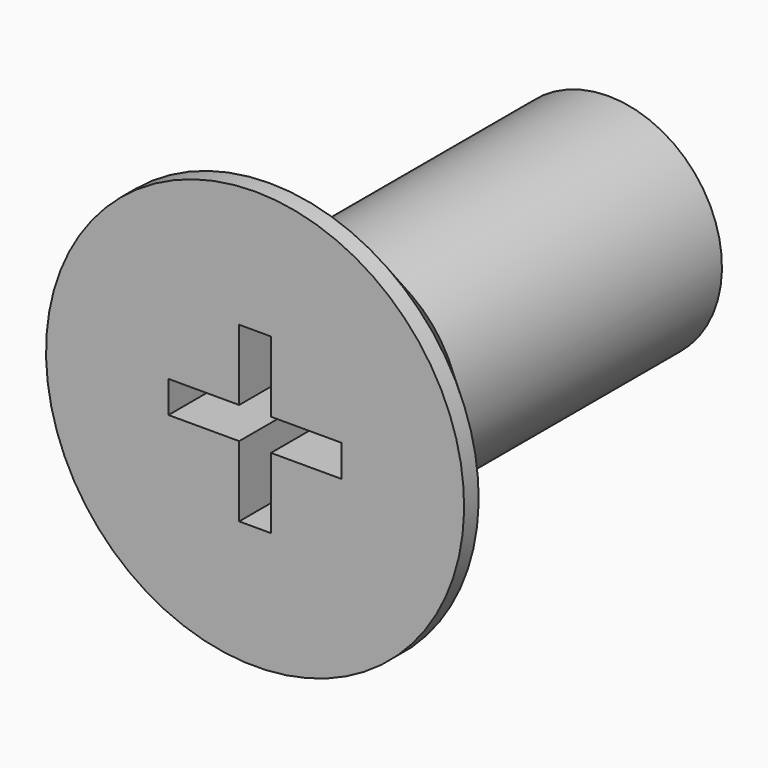
from build123d import *

# Parameters (mm, degrees)
POCKET_DEPTH = 2.54


with BuildPart() as part:
    # Sketch → Revolution (revolve)
    with BuildSketch(Plane.YZ):
        Polygon((0, 0), (0, 4.6), (0.4, 4.6), (2.5, 2.5), (9.717098, 2.5), (10, 2.01), (10, 0), align=None)
    revolve(axis=Axis((0, 0, 0), (0, 1, 0)))

    # Sketch001 → Pocket (cut)
    with BuildSketch(Plane(origin=(0, 0, 0), x_dir=(0, 0, -1), z_dir=(0, -1, 0))):
        Polygon((-1.905, 0.35), (-0.35, 0.35), (-0.35, 1.905), (0.35, 1.905), (0.35, 0.35), (1.905, 0.35), (1.905, -0.35), (0.35, -0.35), (0.35, -1.905), (-0.35, -1.905), (-0.35, -0.35), (-1.905, -0.35), align=None)
    extrude(amount=-POCKET_DEPTH, mode=Mode.SUBTRACT)


solid = part.part
